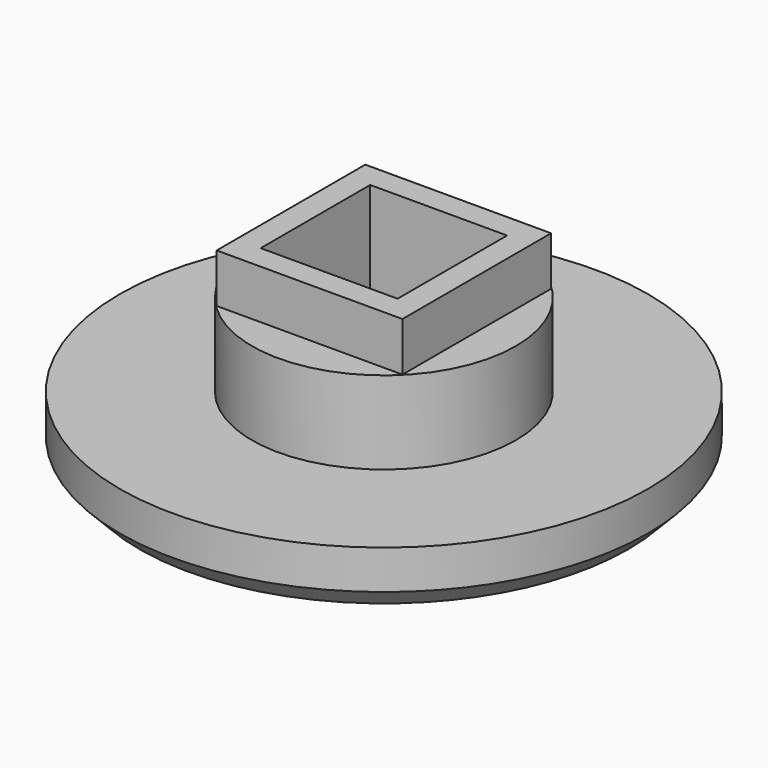
from build123d import *

# Parameters (mm, degrees)
CYLINDER_R                 = 3.5
CYLINDER_DEPTH             = 13
BOX001_W                   = 7
BOX001_H                   = 7
BOX001_DEPTH               = 10.5
BOX_W                      = 9.5
BOX_H                      = 9.5
BOX_DEPTH                  = 9
CHAMFER_SIZE               = 0.3
FILLET_R                   = 0.5
CHAMFER001_SIZE            = 1
CHAMFER001_PLACEMENT_ANGLE = 180


with BuildPart() as cilindro:
    # Cylinder → Cylinder (new body)
    with BuildSketch(Plane.XY.offset(-5)):
        Circle(CYLINDER_R)
    extrude(amount=CYLINDER_DEPTH)


with BuildPart() as cubo001:
    # Box001 → Box001 (new body)
    with BuildSketch(Plane(origin=(-3.5, -3.5, -4.5), x_dir=(1, 0, 0), z_dir=(0, 0, 1))):
        with Locations((3.5, 3.5)):
            Rectangle(BOX001_W, BOX001_H)
    extrude(amount=BOX001_DEPTH)


with BuildPart() as cubo:
    # Box → Box (new body)
    with BuildSketch(Plane(origin=(-4.75, -4.75, -2.5), x_dir=(1, 0, 0), z_dir=(0, 0, 1))):
        with Locations((4.75, 4.75)):
            Rectangle(BOX_W, BOX_H)
    extrude(amount=BOX_DEPTH)


with BuildPart() as chamfer001:
    # Sketch → Revolution (revolve)
    with BuildSketch(Plane.XZ):
        Polygon((0, 0), (0, 6.5), (6, 6.5), (6, 7.5), (13.5, 7.238094), (13.5, 4.238094), (6.75, 4.238094), (6.75, 0), align=None)
    revolve(axis=Axis((0, 0, 0), (0, 0, 1)))

    # Fusion: union Cubo
    add(cubo.part)

    # Cut: cut Cubo001
    add(cubo001.part, mode=Mode.SUBTRACT)

    # Cut001: cut Cilindro
    add(cilindro.part, mode=Mode.SUBTRACT)

    # Chamfer
    chamfer_edges = [chamfer001.edges().sort_by_distance(p)[0] for p in [
        (5.678908, 1.936492, 6.5),
    ]]
    chamfer(chamfer_edges, length=CHAMFER_SIZE)

    # Fillet
    fillet_edges = [chamfer001.edges().sort_by_distance(p)[0] for p in [
        (-6, 0, 7.5),
    ]]
    fillet(fillet_edges, radius=FILLET_R)

    # Chamfer001
    chamfer001_edges = [chamfer001.edges().sort_by_distance(p)[0] for p in [
        (-13.5, 0, 7.238094),
    ]]
    chamfer(chamfer001_edges, length=CHAMFER001_SIZE)


with BuildPart() as chamfer001_1:
    # Chamfer001 placement: moved
    add(chamfer001.part.rotate(Axis((0, 0, 0), (1, 0, 0)), CHAMFER001_PLACEMENT_ANGLE))


solid = chamfer001_1.part
